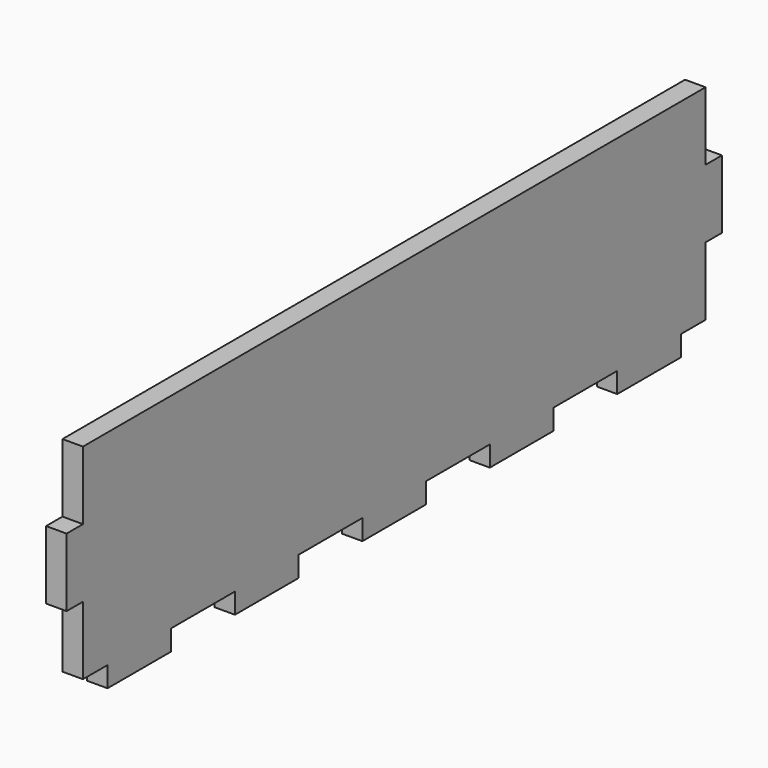
from build123d import *

# Parameters (mm, degrees)
F1_DEPTH = 9


with BuildPart() as f1:
    # F0 (on Right) → F1 (new body)
    with BuildSketch(Plane.YZ):
        Polygon((-171, 60), (-180, 60), (-180, 30), (-171, 30), (-171, 0), (-157.5, 0), (-157.5, -9), (-122.5, -9), (-122.5, 0), (-87.5, 0), (-87.5, -9), (-52.5, -9), (-52.5, 0), (-17.5, 0), (-17.5, -9), (0, -9), (17.5, -9), (17.5, 0), (52.5, 0), (52.5, -9), (87.5, -9), (87.5, 0), (122.5, 0), (122.5, -9), (157.5, -9), (157.5, 0), (171, 0), (171, 30), (180, 30), (180, 60), (171, 60), (171, 90), (0, 90), (-171, 90), align=None)
    extrude(amount=F1_DEPTH)


solid = f1.part
